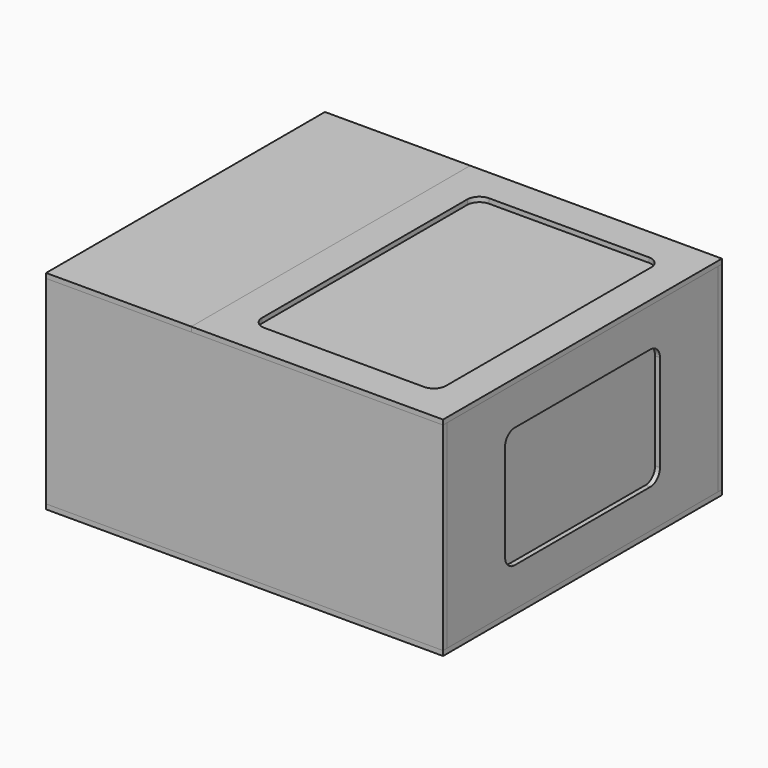
from build123d import *

# Parameters (mm, degrees)
SKETCH_W        = 820
SKETCH_H        = 720
PAD_DEPTH       = 10
SKETCH001_W     = 820
SKETCH001_H     = 10
PAD001_DEPTH    = 410
SKETCH002_W     = 820
SKETCH002_H     = 10
PAD002_DEPTH    = 410
SKETCH003_W     = 300
SKETCH003_H     = 720
PAD003_DEPTH    = 10
SKETCH004_W     = 520
SKETCH004_H     = 720
PAD004_DEPTH    = 10
POCKET_DEPTH    = 10
SKETCH005_W     = 10
SKETCH005_H     = 410
PAD005_DEPTH    = 700
POCKET001_DEPTH = 10
SKETCH006_W     = 10
SKETCH006_H     = 410
PAD006_DEPTH    = 700
SKETCH012_R     = 40
POCKET002_DEPTH = 10
SKETCH009_W     = 400
SKETCH009_H     = 600
PAD007_DEPTH    = 5
SKETCH010_W     = 420
SKETCH010_H     = 270
PAD008_DEPTH    = 5


with BuildPart() as bottom:
    # Sketch → Pad (new body)
    with BuildSketch(Plane.XY):
        Rectangle(SKETCH_W, SKETCH_H)
    extrude(amount=PAD_DEPTH)


with BuildPart() as right_side:
    # Sketch001 (on Face1 of CopyPad) → Pad001 (new body)
    with BuildSketch(Plane.XY.offset(10)):
        with Locations((0, 355)):
            Rectangle(SKETCH001_W, SKETCH001_H)
    extrude(amount=PAD001_DEPTH)


with BuildPart() as left_side:
    # Sketch002 (on Face1 of CopyPad001) → Pad002 (new body)
    with BuildSketch(Plane.XY.offset(10)):
        with Locations((0, -355)):
            Rectangle(SKETCH002_W, SKETCH002_H)
    extrude(amount=PAD002_DEPTH)


with BuildPart() as fixed_top_part:
    # Sketch003 (on Face1 of CopyPad002) → Pad003 (new body)
    with BuildSketch(Plane.XY.offset(420)):
        with Locations((-260, 0)):
            Rectangle(SKETCH003_W, SKETCH003_H)
    extrude(amount=PAD003_DEPTH)


with BuildPart() as top_door:
    # Sketch004 (on Face1 of CopyPad002001) → Pad004 (new body)
    with BuildSketch(Plane.XY.offset(420)):
        with Locations((150, 0)):
            Rectangle(SKETCH004_W, SKETCH004_H)
    extrude(amount=PAD004_DEPTH)

    # Sketch007 (on Face6 of Pad004) → Pocket (cut)
    with BuildSketch(Plane.XY.offset(430)):
        with BuildLine():
            Line((-15, 290), (315, 290))
            ThreePointArc((340, 265), (332.67767, 282.67767), (315, 290))
            Line((340, 265), (340, -265))
            ThreePointArc((315, -290), (332.67767, -282.67767), (340, -265))
            Line((315, -290), (-15, -290))
            ThreePointArc((-40, -265), (-32.67767, -282.67767), (-15, -290))
            Line((-40, -265), (-40, 265))
            ThreePointArc((-15, 290), (-32.67767, 282.67767), (-40, 265))
        make_face()
    extrude(amount=-POCKET_DEPTH, mode=Mode.SUBTRACT)


with BuildPart() as front_door:
    # Sketch005 (on Face1 of CopyPad001001) → Pad005 (new body)
    with BuildSketch(Plane(origin=(0, 350, 10), x_dir=(1, 0, 0), z_dir=(0, -1, 0))):
        with Locations((405, 205)):
            Rectangle(SKETCH005_W, SKETCH005_H)
    extrude(amount=PAD005_DEPTH)

    # Sketch008 (on Face4 of Pad005) → Pocket001 (cut)
    with BuildSketch(Plane(origin=(410, 0, 10), x_dir=(0, 1, 0), z_dir=(1, 0, 0))):
        with BuildLine():
            Line((-175, 330), (175, 330))
            ThreePointArc((200, 305), (192.67767, 322.67767), (175, 330))
            Line((200, 305), (200, 105))
            ThreePointArc((175, 80), (192.67767, 87.32233), (200, 105))
            Line((175, 80), (-175, 80))
            ThreePointArc((-200, 105), (-192.67767, 87.32233), (-175, 80))
            Line((-200, 105), (-200, 305))
            ThreePointArc((-175, 330), (-192.67767, 322.67767), (-200, 305))
        make_face()
    extrude(amount=-POCKET001_DEPTH, mode=Mode.SUBTRACT)


with BuildPart() as back_side:
    # Sketch006 (on Face1 of CopyPad001002) → Pad006 (new body)
    with BuildSketch(Plane(origin=(0, 350, 10), x_dir=(1, 0, 0), z_dir=(0, -1, 0))):
        with Locations((-405, 205)):
            Rectangle(SKETCH006_W, SKETCH006_H)
    extrude(amount=PAD006_DEPTH)

    # Sketch012 (on Face4 of Pad006) → Pocket002 (cut)
    with BuildSketch(Plane(origin=(-410, 0, 10), x_dir=(0, -1, 0), z_dir=(-1, 0, 0))):
        with Locations((0, 205)):
            Circle(SKETCH012_R)
    extrude(amount=-POCKET002_DEPTH, mode=Mode.SUBTRACT)


with BuildPart() as top_glass:
    # Sketch009 (on Face1 of CopyPocket) → Pad007 (new body)
    with BuildSketch(Plane(origin=(0, 0, 420), x_dir=(1, 0, 0), z_dir=(0, 0, -1))):
        with Locations((150, 0)):
            Rectangle(SKETCH009_W, SKETCH009_H)
    extrude(amount=PAD007_DEPTH)


with BuildPart() as front_glass:
    # Sketch010 (on Face1 of CopyPocket001) → Pad008 (new body)
    with BuildSketch(Plane(origin=(400, 0, 10), x_dir=(0, -1, 0), z_dir=(-1, 0, 0))):
        with Locations((0, 205)):
            Rectangle(SKETCH010_W, SKETCH010_H)
    extrude(amount=PAD008_DEPTH)


solid = Compound([bottom.part, right_side.part, left_side.part, fixed_top_part.part, top_door.part, front_door.part, back_side.part, top_glass.part, front_glass.part])
